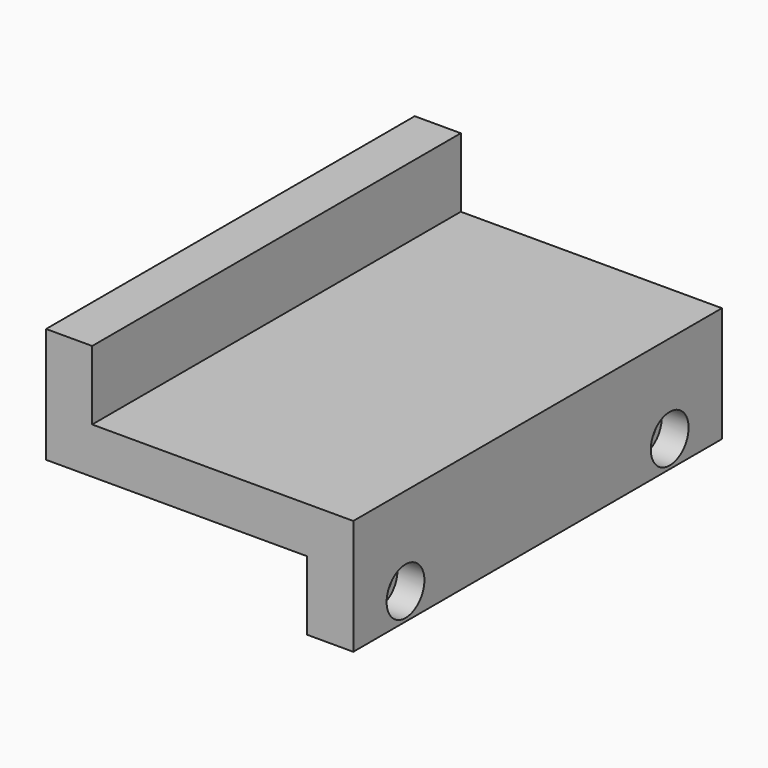
from build123d import *

# Parameters (mm, degrees)
F0_W     = 40
F0_H     = 60
F1_DEPTH = 24
F2_W     = 65.936946
F2_H     = 73.230896
F3_DEPTH = 9
F4_W     = 66.143565
F4_H     = 69.968968
F5_DEPTH = 9
F6_R     = 2.25
F7_DEPTH = 8
F8_R     = 3.075
F9_DEPTH = 3.5


with BuildPart() as f1:
    # F0 (on Top) → F1 (new body)
    with BuildSketch(Plane.XY):
        Rectangle(F0_W, F0_H)
    extrude(amount=F1_DEPTH)

    # F2 (on face) → F3 (cut)
    with BuildSketch(Plane.XY.offset(24)):
        with Locations((18.968473, 0)):
            Rectangle(F2_W, F2_H)
    extrude(amount=-F3_DEPTH, mode=Mode.SUBTRACT)

    # F4 (on face) → F5 (cut)
    with BuildSketch(Plane(origin=(0, 0, 0), x_dir=(1, 0, 0), z_dir=(0, 0, -1))):
        with Locations((-19.071782, 0)):
            Rectangle(F4_W, F4_H)
    extrude(amount=-F5_DEPTH, mode=Mode.SUBTRACT)

    # F6 (on face) → F7 (cut)
    with BuildSketch(Plane.YZ.offset(20)):
        with Locations((21.5, 3.5)):
            Circle(F6_R)
        with Locations((-21.5, 3.5)):
            Circle(F6_R)
    extrude(amount=-F7_DEPTH, mode=Mode.SUBTRACT)

    # F8 (on face) → F9 (cut)
    with BuildSketch(Plane.YZ.offset(20)):
        with Locations((-21.5, 3.5)):
            Circle(F8_R)
        with Locations((21.5, 3.5)):
            Circle(F8_R)
    extrude(amount=-F9_DEPTH, mode=Mode.SUBTRACT)


solid = f1.part
